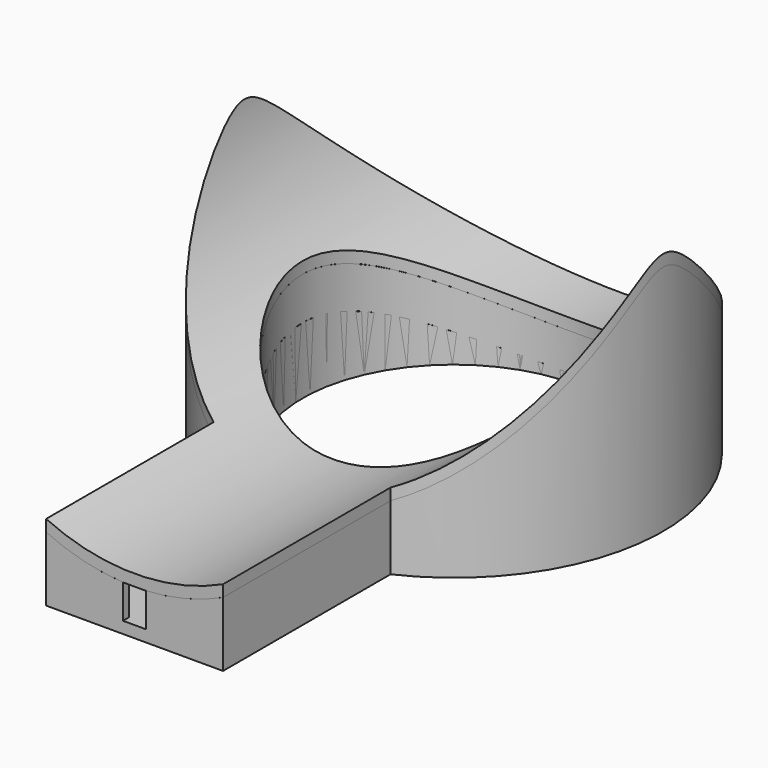
from build123d import *

# Parameters (mm, degrees)
SKETCH_R             = 18
PAD_DEPTH            = 30
SKETCH004_R          = 17
POCKET002_DEPTH      = 30
POCKET005_DEPTH      = 0.001
POCKET005_DEPTH_BACK = -30.001
SKETCH008_R          = 13
POCKET006_DEPTH      = 0.001
POCKET006_DEPTH_BACK = -30.001
SKETCH010_W          = 15.214258
SKETCH010_H          = 18
PAD003_DEPTH         = 7
SKETCH011_W          = 13.284858
SKETCH011_H          = 18
POCKET009_DEPTH      = 6
POCKET_DEPTH         = 18.001
POCKET_DEPTH_BACK    = -34.31454
SKETCH012_W          = 2
SKETCH012_H          = 4
POCKET010_DEPTH      = 5
SKETCH002_R          = 17
PAD001_DEPTH         = 21
POCKET003_DEPTH      = 17.001
POCKET003_DEPTH_BACK = 17.001
SKETCH009_R          = 13
POCKET008_DEPTH      = 0.001
POCKET008_DEPTH_BACK = -10.835849
SKETCH005_R          = 14
PAD002_DEPTH         = 20
POCKET004_DEPTH      = 14.001
POCKET004_DEPTH_BACK = -14.001
SKETCH007_R          = 13
POCKET007_DEPTH      = 0.001
POCKET007_DEPTH_BACK = -10.511875
SKETCH014_R          = 18
PAD004_DEPTH         = 22
SKETCH018_W          = 15.214258
SKETCH018_H          = 18
PAD005_DEPTH         = 4
POCKET012_DEPTH      = 18.001
POCKET012_DEPTH_BACK = -34.31454
SKETCH017_R          = 13
POCKET013_DEPTH      = 11
SKETCH019_W          = 13.284858
SKETCH019_H          = 18
PAD006_DEPTH         = 2
POCKET011_DEPTH      = 18.001
POCKET011_DEPTH_BACK = -34.31454


with BuildPart() as body:
    # Sketch → Pad (new body)
    with BuildSketch(Plane.XY):
        Circle(SKETCH_R)
    extrude(amount=PAD_DEPTH)

    # Sketch004 → Pocket002 (cut)
    with BuildSketch(Plane.XY):
        Circle(SKETCH004_R)
    extrude(amount=POCKET002_DEPTH, mode=Mode.SUBTRACT)

    # Sketch004 → Pocket005 (cut, two sides)
    with BuildSketch(Plane.XY) as pocket005_sk:
        Circle(SKETCH004_R)
    extrude(amount=-POCKET005_DEPTH, mode=Mode.SUBTRACT)
    extrude(pocket005_sk.sketch, amount=-POCKET005_DEPTH_BACK, mode=Mode.SUBTRACT)

    # Sketch008 → Pocket006 (cut, two sides)
    with BuildSketch(Plane.XY) as pocket006_sk:
        Circle(SKETCH008_R)
    extrude(amount=-POCKET006_DEPTH, mode=Mode.SUBTRACT)
    extrude(pocket006_sk.sketch, amount=-POCKET006_DEPTH_BACK, mode=Mode.SUBTRACT)

    # Sketch010 → Pad003 (join)
    with BuildSketch(Plane.XY):
        with Locations((0, -25.31354)):
            Rectangle(SKETCH010_W, SKETCH010_H)
    extrude(amount=PAD003_DEPTH)

    # Sketch011 → Pocket009 (cut)
    with BuildSketch(Plane.XY.offset(7)):
        with Locations((0, -24.648583)):
            Rectangle(SKETCH011_W, SKETCH011_H)
    extrude(amount=-POCKET009_DEPTH, mode=Mode.SUBTRACT)

    # Sketch001 → Pocket (cut, two sides)
    with BuildSketch(Plane.XZ) as pocket_sk:
        with BuildLine():
            Line((-18, 35), (18, 35))
            Line((18, 35), (18, 20))
            ThreePointArc((-18, 20), (0, 3.88923), (18, 20))
            Line((-18, 20), (-18, 35))
        make_face()
    extrude(amount=-POCKET_DEPTH, mode=Mode.SUBTRACT)
    extrude(pocket_sk.sketch, amount=-POCKET_DEPTH_BACK, mode=Mode.SUBTRACT)

    # Sketch012 → Pocket010 (cut)
    with BuildSketch(Plane.XZ.offset(35)):
        with Locations((0, 3)):
            Rectangle(SKETCH012_W, SKETCH012_H)
    extrude(amount=-POCKET010_DEPTH, mode=Mode.SUBTRACT)


with BuildPart() as body001:
    # Sketch002 → Pad001 (new body)
    with BuildSketch(Plane.XY):
        Circle(SKETCH002_R)
    extrude(amount=PAD001_DEPTH)

    # Sketch003 → Pocket003 (cut, two sides)
    with BuildSketch(Plane.XZ) as pocket003_sk:
        with BuildLine():
            Line((-18, 28), (18, 28))
            Line((18, 28), (18, 13))
            ThreePointArc((-18, 13), (0, 0.686792), (18, 13))
            Line((-18, 13), (-18, 28))
        make_face()
    extrude(amount=POCKET003_DEPTH, mode=Mode.SUBTRACT)
    extrude(pocket003_sk.sketch, amount=-POCKET003_DEPTH_BACK, mode=Mode.SUBTRACT)

    # Sketch009 → Pocket008 (cut, two sides)
    with BuildSketch(Plane.XY) as pocket008_sk:
        Circle(SKETCH009_R)
    extrude(amount=-POCKET008_DEPTH, mode=Mode.SUBTRACT)
    extrude(pocket008_sk.sketch, amount=-POCKET008_DEPTH_BACK, mode=Mode.SUBTRACT)


with BuildPart() as body002:
    # Sketch005 → Pad002 (new body)
    with BuildSketch(Plane.XY):
        Circle(SKETCH005_R)
    extrude(amount=PAD002_DEPTH)

    # Sketch006 → Pocket004 (cut, two sides)
    with BuildSketch(Plane.XZ) as pocket004_sk:
        with BuildLine():
            Line((-18, 34), (18, 34))
            Line((18, 34), (18, 20))
            ThreePointArc((-18, 20), (0, 3.88923), (18, 20))
            Line((-18, 20), (-18, 34))
        make_face()
    extrude(amount=-POCKET004_DEPTH, mode=Mode.SUBTRACT)
    extrude(pocket004_sk.sketch, amount=-POCKET004_DEPTH_BACK, mode=Mode.SUBTRACT)

    # Sketch007 → Pocket007 (cut, two sides)
    with BuildSketch(Plane.XY) as pocket007_sk:
        Circle(SKETCH007_R)
    extrude(amount=-POCKET007_DEPTH, mode=Mode.SUBTRACT)
    extrude(pocket007_sk.sketch, amount=-POCKET007_DEPTH_BACK, mode=Mode.SUBTRACT)


with BuildPart() as cover001:
    # Sketch014 → Pad004 (new body)
    with BuildSketch(Plane.XY.offset(22)):
        Circle(SKETCH014_R)
    extrude(amount=-PAD004_DEPTH)

    # Sketch018 → Pad005 (join)
    with BuildSketch(Plane.XY.offset(7)):
        with Locations((0, -25.31354)):
            Rectangle(SKETCH018_W, SKETCH018_H)
    extrude(amount=-PAD005_DEPTH)

    # Sketch016 → Pocket012 (cut, two sides)
    with BuildSketch(Plane.XZ) as pocket012_sk:
        with BuildLine():
            Line((-18, 0), (18, 0))
            Line((18, 20), (18, 0))
            ThreePointArc((-18, 20), (0, 3.88923), (18, 20))
            Line((-18, 20), (-18, 0))
        make_face()
    extrude(amount=-POCKET012_DEPTH, mode=Mode.SUBTRACT)
    extrude(pocket012_sk.sketch, amount=-POCKET012_DEPTH_BACK, mode=Mode.SUBTRACT)

    # Sketch017 → Pocket013 (cut)
    with BuildSketch(Plane.XY.offset(1)):
        Circle(SKETCH017_R)
    extrude(amount=POCKET013_DEPTH, mode=Mode.SUBTRACT)

    # Sketch019 → Pad006 (join)
    with BuildSketch(Plane.XY.offset(6)):
        with Locations((0, -24.648583)):
            Rectangle(SKETCH019_W, SKETCH019_H)
    extrude(amount=-PAD006_DEPTH)

    # Sketch013 → Pocket011 (cut, two sides)
    with BuildSketch(Plane.XZ) as pocket011_sk:
        with BuildLine():
            Line((-18, 36), (18, 36))
            Line((18, 36), (18, 21))
            ThreePointArc((-18, 21), (0, 4.88923), (18, 21))
            Line((-18, 21), (-18, 36))
        make_face()
    extrude(amount=-POCKET011_DEPTH, mode=Mode.SUBTRACT)
    extrude(pocket011_sk.sketch, amount=-POCKET011_DEPTH_BACK, mode=Mode.SUBTRACT)


solid = Compound([body.part, body001.part, body002.part, cover001.part])
